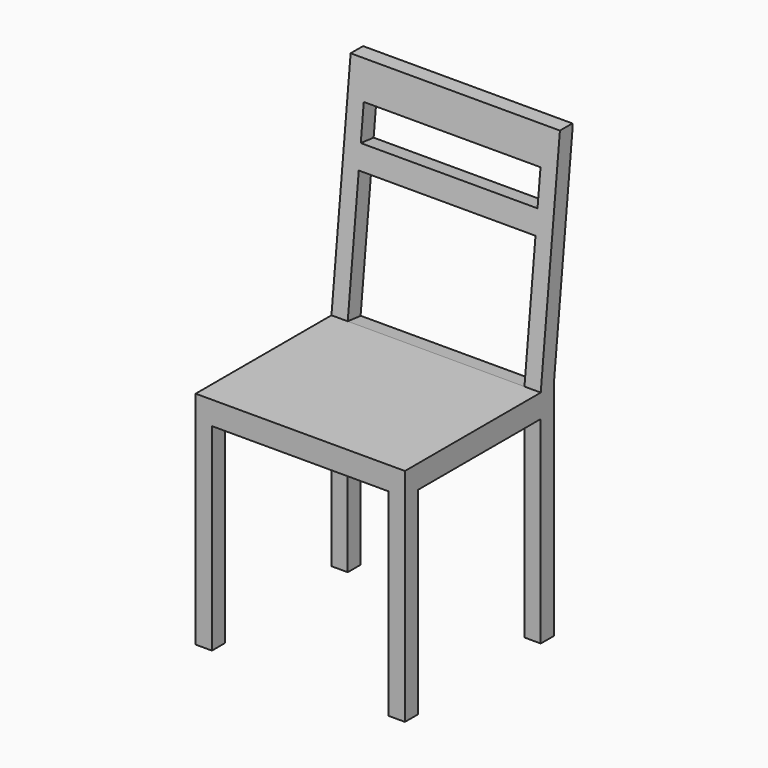
from build123d import *

# Parameters (mm, degrees)
F0_W     = 450
F0_H     = 450
F1_DEPTH = 950
F2_W     = 50
F2_H     = 50
F2_H_2   = 425
F2_W_2   = 330
F3_DEPTH = 450.001
F4_W     = 380
F4_H     = 425
F5_DEPTH = 450.001
F6_W     = 380
F6_H     = 75
F6_H_2   = 275
F7_DEPTH = 135.7561676147


with BuildPart() as f1:
    # F0 (on Top) → F1 (new body)
    with BuildSketch(Plane.XY):
        Rectangle(F0_W, F0_H)
    extrude(amount=F1_DEPTH)

    # F2 (on face) → F3 (cut, through all)
    with BuildSketch(Plane.YZ.offset(225)):
        Polygon((-225, 950), (-225, 475), (140, 475), (191.5523596896, 950), align=None)
        Polygon((225, 935.6966614723), (175, 475), (225, 475), align=None)
        with Locations((200, 450)):
            Rectangle(F2_W, F2_H)
        with Locations((200, 212.5)):
            Rectangle(F2_W, F2_H_2)
        with Locations((-25, 212.5)):
            Rectangle(F2_W_2, F2_H_2)
    extrude(amount=-F3_DEPTH, mode=Mode.SUBTRACT)

    # F4 (on face) → F5 (cut, through all)
    with BuildSketch(Plane.XZ.offset(225)):
        with Locations((0, 212.5)):
            Rectangle(F4_W, F4_H)
    extrude(amount=-F5_DEPTH, mode=Mode.SUBTRACT)

    # F6 (on face) → F7 (cut, through all)
    with BuildSketch(Plane(origin=(0, 87.4179409303, -9.4875813351), x_dir=(1, 0, 0), z_dir=(0, -0.9941620044, 0.1078976784))):
        with Locations((0, 849.8326270669)):
            Rectangle(F6_W, F6_H)
        with Locations((0, 624.8326270669)):
            Rectangle(F6_W, F6_H_2)
    extrude(amount=-F7_DEPTH, mode=Mode.SUBTRACT)


solid = f1.part
